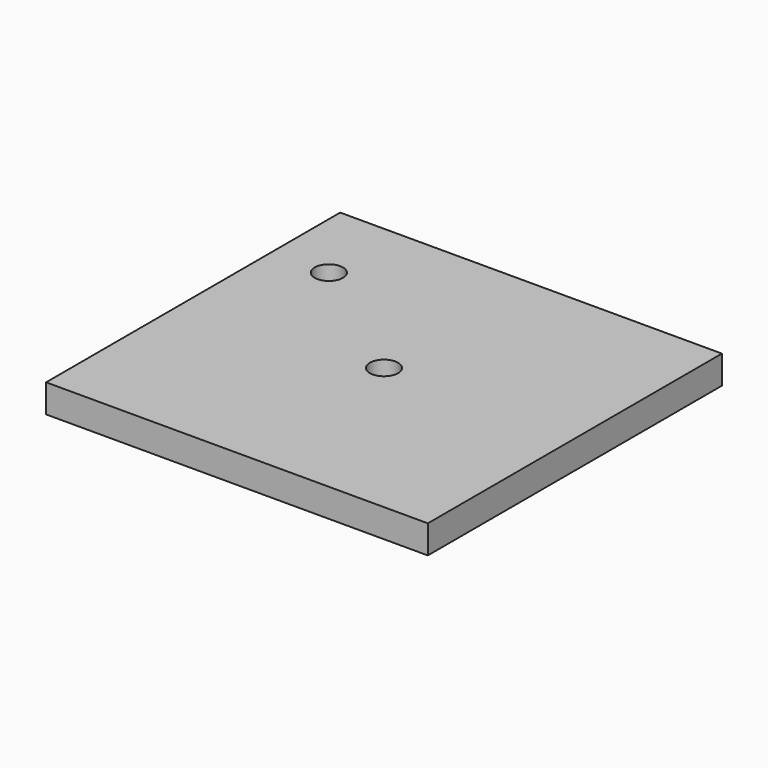
from build123d import *

# Parameters (mm, degrees)
F0_W     = 342.9
F0_H     = 330.2
F1_DEPTH = 25.4
F2_R     = 12.7
F3_DEPTH = 25.401
F4_R     = 12.7
F5_DEPTH = 25.401


with BuildPart() as f1:
    # F0 (on Top) → F1 (new body)
    with BuildSketch(Plane.XY):
        with Locations((171.45, 165.1)):
            Rectangle(F0_W, F0_H)
    extrude(amount=F1_DEPTH)

    # F2 (on face) → F3 (cut, through all)
    with BuildSketch(Plane.XY.offset(25.4)):
        with Locations((50.8, 254)):
            Circle(F2_R)
    extrude(amount=-F3_DEPTH, mode=Mode.SUBTRACT)

    # F4 (on face) → F5 (cut, through all)
    with BuildSketch(Plane.XY.offset(25.4)):
        with Locations((171.45, 165.1)):
            Circle(F4_R)
    extrude(amount=-F5_DEPTH, mode=Mode.SUBTRACT)


solid = f1.part
